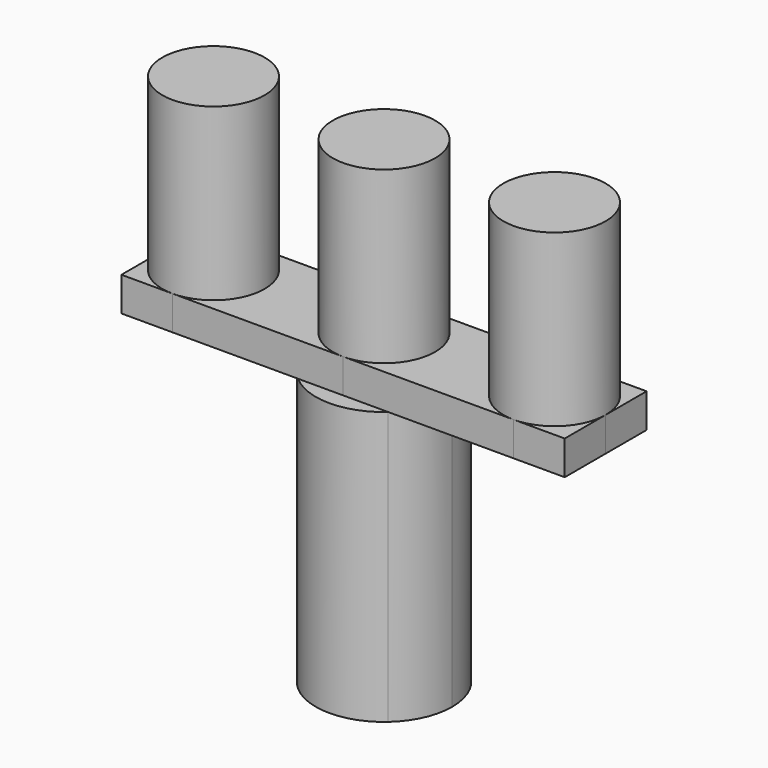
from build123d import *

# Parameters (mm, degrees)
F1_DEPTH = 30
F2_DEPTH = 5
F3_DEPTH = 40


with BuildPart() as f1:
    # F0 (on Top) → F1 (new body)
    with BuildSketch(Plane.XY):
        with BuildLine():
            ThreePointArc((-17.5, 0), (-19.6966991411, 5.3033008589), (-25, 7.5))
            ThreePointArc((-25, 7.5), (-30.3033008589, 5.3033008589), (-32.5, 0))
            ThreePointArc((-32.5, 0), (-30.3033008589, -5.3033008589), (-25, -7.5))
            ThreePointArc((-25, -7.5), (-19.6966991411, -5.3033008589), (-17.5, 0))
        make_face()
    extrude(amount=F1_DEPTH)


with BuildPart() as f1b:
    # F0 (on Top) → F1, piece 2 (new body)
    with BuildSketch(Plane.XY):
        with BuildLine():
            ThreePointArc((32.5, 0), (30.3033008589, 5.3033008589), (25, 7.5))
            ThreePointArc((25, 7.5), (17.5, 0), (25, -7.5))
            ThreePointArc((25, -7.5), (30.3033008589, -5.3033008589), (32.5, 0))
        make_face()
    extrude(amount=F1_DEPTH)


with BuildPart() as f1c:
    # F0 (on Top) → F1, piece 3 (new body)
    with BuildSketch(Plane.XY):
        with BuildLine():
            ThreePointArc((-2.86e-08, -7.5), (5.3033008488, -5.303300869), (7.5, 0))
            ThreePointArc((7.5, 0), (5.3033008589, 5.3033008589), (0, 7.5))
            ThreePointArc((0, 7.5), (-7.5, 1.43e-08), (-2.86e-08, -7.5))
        make_face()
    extrude(amount=F1_DEPTH)


with BuildPart() as f2:
    # F0 (on Top) → F2 (new body)
    with BuildSketch(Plane.XY):
        with BuildLine():
            ThreePointArc((-6.6143782777, -7.5), (-10, 0), (-6.6143782777, 7.5))
            Line((-6.6143782777, 7.5), (-25, 7.5))
            ThreePointArc((-25, 7.5), (-19.6966991411, 5.3033008589), (-17.5, 0))
            ThreePointArc((-17.5, 0), (-19.6966991411, -5.3033008589), (-25, -7.5))
            Line((-25, -7.5), (-6.6143782777, -7.5))
        make_face()
        with BuildLine():
            ThreePointArc((-2.86e-08, -7.5), (-7.5, 1.43e-08), (0, 7.5))
            Line((0, 7.5), (-6.6143782777, 7.5))
            ThreePointArc((-6.6143782777, 7.5), (-10, 0), (-6.6143782777, -7.5))
            Line((-6.6143782777, -7.5), (-2.86e-08, -7.5))
        make_face()
    extrude(amount=F2_DEPTH)


with BuildPart() as f2b:
    # F0 (on Top) → F2, piece 2 (new body)
    with BuildSketch(Plane.XY):
        with BuildLine():
            Line((-32.5, -7.5), (-25, -7.5))
            ThreePointArc((-25, -7.5), (-30.3033008589, -5.3033008589), (-32.5, 0))
            Line((-32.5, 0), (-32.5, -7.5))
        make_face()
    extrude(amount=F2_DEPTH)


with BuildPart() as f2c:
    # F0 (on Top) → F2, piece 3 (new body)
    with BuildSketch(Plane.XY):
        with BuildLine():
            ThreePointArc((0, 7.5), (5.3033008589, 5.3033008589), (7.5, 0))
            ThreePointArc((7.5, 0), (5.3033008488, -5.303300869), (-2.86e-08, -7.5))
            Line((-2.86e-08, -7.5), (6.6143782777, -7.5))
            ThreePointArc((6.6143782777, -7.5), (9.1143782777, -4.1143782777), (10, 0))
            ThreePointArc((10, 0), (9.1143782777, 4.1143782777), (6.6143782777, 7.5))
            Line((6.6143782777, 7.5), (0, 7.5))
        make_face()
        with BuildLine():
            Line((25, 7.5), (6.6143782777, 7.5))
            ThreePointArc((6.6143782777, 7.5), (9.1143782777, 4.1143782777), (10, 0))
            ThreePointArc((10, 0), (9.1143782777, -4.1143782777), (6.6143782777, -7.5))
            Line((6.6143782777, -7.5), (25, -7.5))
            ThreePointArc((25, -7.5), (17.5, 0), (25, 7.5))
        make_face()
    extrude(amount=F2_DEPTH)


with BuildPart() as f2d:
    # F0 (on Top) → F2, piece 4 (new body)
    with BuildSketch(Plane.XY):
        with BuildLine():
            ThreePointArc((32.5, 0), (30.3033008589, -5.3033008589), (25, -7.5))
            Line((25, -7.5), (32.5, -7.5))
            Line((32.5, -7.5), (32.5, 0))
        make_face()
    extrude(amount=F2_DEPTH)


with BuildPart() as f2e:
    # F0 (on Top) → F2, piece 5 (new body)
    with BuildSketch(Plane.XY):
        with BuildLine():
            Line((32.5, 7.5), (25, 7.5))
            ThreePointArc((25, 7.5), (30.3033008589, 5.3033008589), (32.5, 0))
            Line((32.5, 0), (32.5, 7.5))
        make_face()
    extrude(amount=F2_DEPTH)


with BuildPart() as f2f:
    # F0 (on Top) → F2, piece 6 (new body)
    with BuildSketch(Plane.XY):
        with BuildLine():
            ThreePointArc((-32.5, 0), (-30.3033008589, 5.3033008589), (-25, 7.5))
            Line((-25, 7.5), (-32.5, 7.5))
            Line((-32.5, 7.5), (-32.5, 0))
        make_face()
    extrude(amount=F2_DEPTH)


with BuildPart() as f3:
    # F0 (on Top) → F3 (new body)
    with BuildSketch(Plane.XY):
        with BuildLine():
            Line((6.6143782777, -7.5), (-2.86e-08, -7.5))
            Line((-2.86e-08, -7.5), (-6.6143782777, -7.5))
            ThreePointArc((-6.6143782777, -7.5), (0, -10), (6.6143782777, -7.5))
        make_face()
        with BuildLine():
            ThreePointArc((-2.86e-08, -7.5), (-7.5, 1.43e-08), (0, 7.5))
            Line((0, 7.5), (-6.6143782777, 7.5))
            ThreePointArc((-6.6143782777, 7.5), (-10, 0), (-6.6143782777, -7.5))
            Line((-6.6143782777, -7.5), (-2.86e-08, -7.5))
        make_face()
        with BuildLine():
            ThreePointArc((-2.86e-08, -7.5), (5.3033008488, -5.303300869), (7.5, 0))
            ThreePointArc((7.5, 0), (5.3033008589, 5.3033008589), (0, 7.5))
            ThreePointArc((0, 7.5), (-7.5, 1.43e-08), (-2.86e-08, -7.5))
        make_face()
        with BuildLine():
            Line((-6.6143782777, 7.5), (0, 7.5))
            Line((0, 7.5), (6.6143782777, 7.5))
            ThreePointArc((6.6143782777, 7.5), (0, 10), (-6.6143782777, 7.5))
        make_face()
        with BuildLine():
            ThreePointArc((0, 7.5), (5.3033008589, 5.3033008589), (7.5, 0))
            ThreePointArc((7.5, 0), (5.3033008488, -5.303300869), (-2.86e-08, -7.5))
            Line((-2.86e-08, -7.5), (6.6143782777, -7.5))
            ThreePointArc((6.6143782777, -7.5), (9.1143782777, -4.1143782777), (10, 0))
            ThreePointArc((10, 0), (9.1143782777, 4.1143782777), (6.6143782777, 7.5))
            Line((6.6143782777, 7.5), (0, 7.5))
        make_face()
    extrude(amount=-F3_DEPTH)


solid = Compound([f1.part, f1b.part, f1c.part, f2.part, f2b.part, f2c.part, f2d.part, f2e.part, f2f.part, f3.part])
